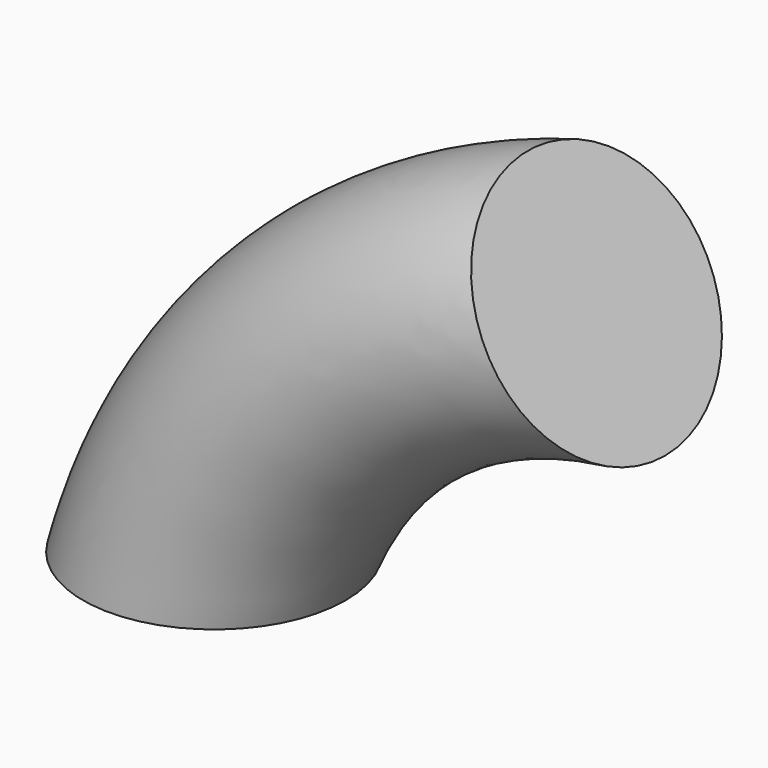
from build123d import *

# Parameters (mm, degrees)
F0_R = 28.135439


with BuildPart() as f2:
    # F2: sweep along a path in F1
    with BuildLine(Plane.XZ) as f2_path:
        ThreePointArc((81.847392, 73.495612), (31.320639, 47.44212), (0, 0))
    # F0 (on Top) → F2 (sweep)
    with BuildSketch(Plane.XY):
        Circle(F0_R)
    sweep(path=f2_path.line)


solid = f2.part
